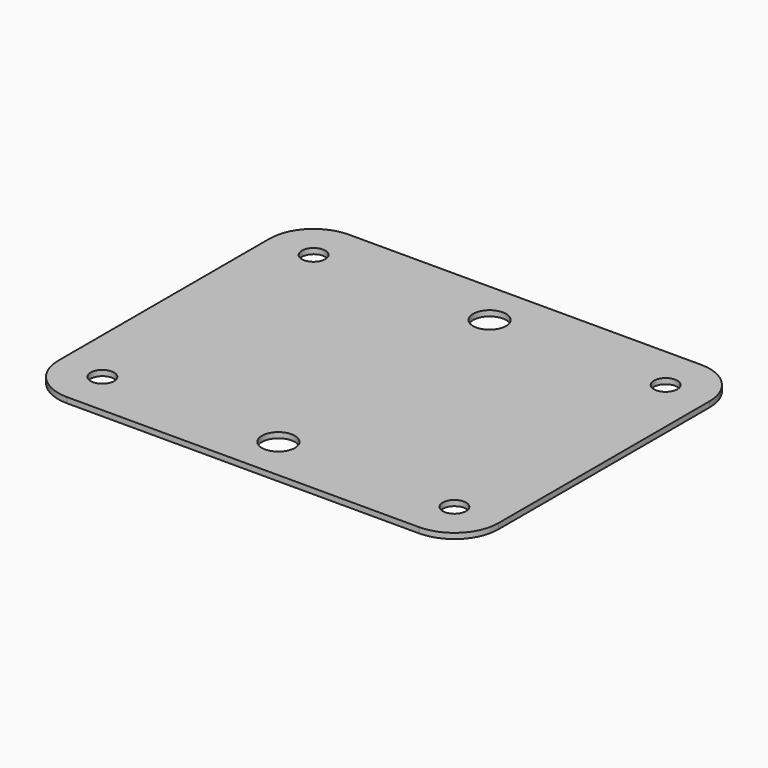
from build123d import *

# Parameters (mm, degrees)
F0_W     = 254
F0_H     = 203.2
F1_DEPTH = 3.175
F2_R     = 25.4
F3_R     = 9.525
F3_R_2   = 6.746875
F4_DEPTH = 3.176


with BuildPart() as f1:
    # F0 (on Top) → F1 (new body)
    with BuildSketch(Plane.XY):
        Rectangle(F0_W, F0_H)
    extrude(amount=F1_DEPTH)

    # F2
    f2_edges = [f1.edges().sort_by_distance(p)[0] for p in [
        (127, 101.6, 1.5875),
        (-127, 101.6, 1.5875),
        (127, -101.6, 1.5875),
        (-127, -101.6, 1.5875),
    ]]
    fillet(f2_edges, radius=F2_R)

    # F3 (on face) → F4 (cut, through all)
    with BuildSketch(Plane.XY.offset(3.175)):
        with Locations((0, 76.2)):
            Circle(F3_R)
        with Locations((0, -76.2)):
            Circle(F3_R)
        with Locations((-101.6, 76.2)):
            Circle(F3_R_2)
        with Locations((-101.6, -76.2)):
            Circle(F3_R_2)
        with Locations((101.6, 76.2)):
            Circle(F3_R_2)
        with Locations((101.6, -76.2)):
            Circle(F3_R_2)
    extrude(amount=-F4_DEPTH, mode=Mode.SUBTRACT)


solid = f1.part
